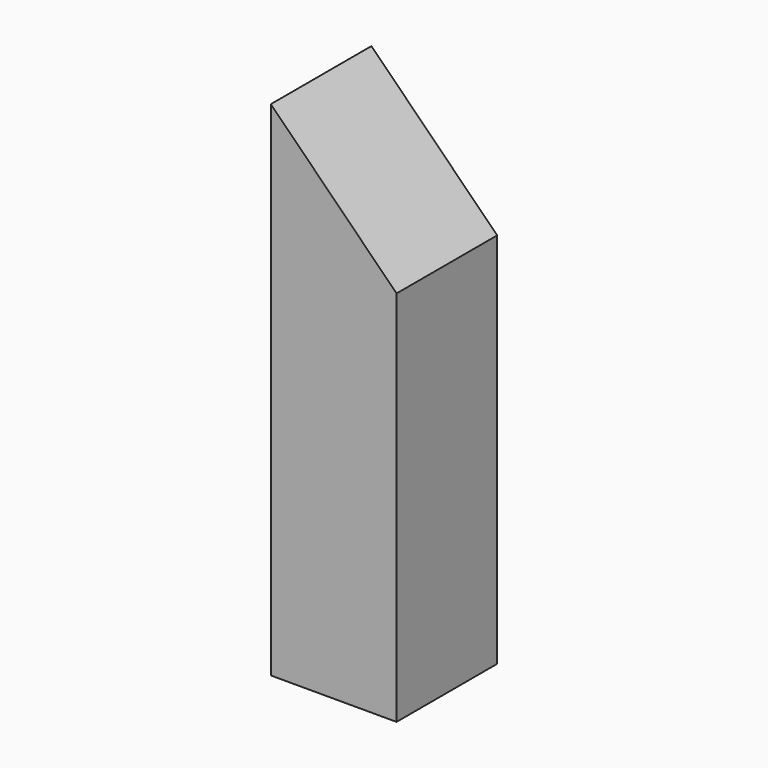
from build123d import *

# Parameters (mm, degrees)
F0_W      = 10
F0_H      = 10
F1_DEPTH  = 5
F2_W      = 10
F2_H      = 20
F3_DEPTH  = 5
F5_DEPTH  = 5
F7_DEPTH  = 5
F9_DEPTH  = 5
F11_DEPTH = 5


with BuildPart() as f1:
    # F0 (on Front) → F1 (new body, symmetric)
    with BuildSketch(Plane.XZ):
        Rectangle(F0_W, F0_H)
    extrude(amount=F1_DEPTH, both=True)


with BuildPart() as f3:
    # F2 (on Front) → F3 (new body, symmetric)
    with BuildSketch(Plane.XZ):
        Rectangle(F2_W, F2_H)
    extrude(amount=F3_DEPTH, both=True)


with BuildPart() as f5:
    # F4 (on Front) → F5 (new body, symmetric)
    with BuildSketch(Plane.XZ):
        Polygon((0, 10), (-5, 10), (-5, -10), (5, -10), (5, 0), (0, 0), align=None)
    extrude(amount=F5_DEPTH, both=True)


with BuildPart() as f7:
    # F6 (on Front) → F7 (new body, symmetric)
    with BuildSketch(Plane.XZ):
        Polygon((-5, -10), (5, -10), (5, 0), (-5, 10), align=None)
    extrude(amount=F7_DEPTH, both=True)


with BuildPart() as f9:
    # F8 (on Front) → F9 (new body, symmetric)
    with BuildSketch(Plane.XZ):
        Polygon((-5, 15), (-5, -15), (5, -15), (5, 5), align=None)
    extrude(amount=F9_DEPTH, both=True)


with BuildPart() as f11:
    # F10 (on Front) → F11 (new body, symmetric)
    with BuildSketch(Plane.XZ):
        Polygon((-5, 20), (-5, -20), (5, -20), (5, 10), align=None)
    extrude(amount=F11_DEPTH, both=True)


solid = Compound([f1.part, f3.part, f5.part, f7.part, f9.part, f11.part])
